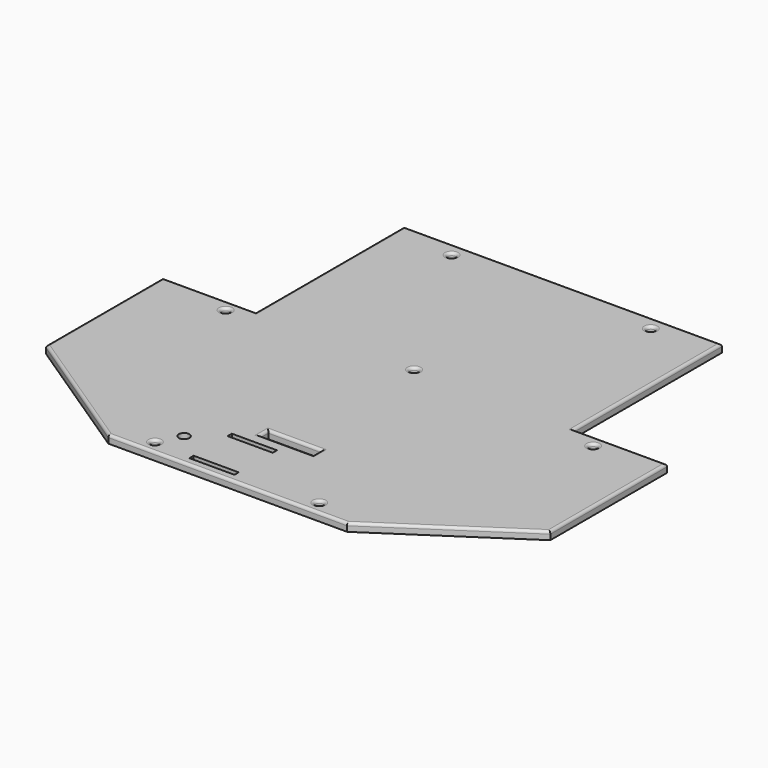
from build123d import *

# Parameters (mm, degrees)
SKETCH028_W      = 17
SKETCH028_H      = 2
EXTRUDE029_DEPTH = 5
SKETCH026_R      = 2
EXTRUDE028_DEPTH = 10
SKETCH025_R      = 1.5
SKETCH025_W      = 20.032371
SKETCH025_H      = 3.947685
EXTRUDE027_DEPTH = 3
FILLET_R         = 1


with BuildPart() as motor_flange_gap:
    # Sketch028 (on Face8 of Cut012) → Extrude029 (new body, symmetric)
    with BuildSketch(Plane.XY.offset(38)):
        with Locations((-8.5, -101)):
            Rectangle(SKETCH028_W, SKETCH028_H)
        with Locations((-8.5, -119)):
            Rectangle(SKETCH028_W, SKETCH028_H)
    extrude(amount=EXTRUDE029_DEPTH, both=True)


with BuildPart() as weapon_wire_slot:
    # Sketch026 (on Face8 of Fillet) → Extrude028 (new body)
    with BuildSketch(Plane.XY.offset(38)):
        with Locations((0, -110)):
            Circle(SKETCH026_R)
    extrude(amount=EXTRUDE028_DEPTH)


with BuildPart() as weapon_wire_slot_1:
    # Extrude028 placement: moved
    add(weapon_wire_slot.part.moved(Location((-27, 0, -6.5))))


with BuildPart() as cut013:
    # Sketch025 (on Face86 of Fusion018) → Extrude027 (new body)
    with BuildSketch(Plane.XY.offset(35)):
        Polygon((-59.987026, 34.827255), (59.804127, 34.827255), (59.804127, -34.966816), (94.999252, -34.966816), (94.999252, -89.997261), (44.964386, -123.178299), (-45.006824, -123.178299), (-94.999153, -90.011429), (-94.999153, -35.007931), (-59.987026, -35.007931), align=None)
        with Locations((37.418976, 29.299974)):
            Circle(SKETCH025_R, mode=Mode.SUBTRACT)
        with Locations((-37.612221, 29.279016)):
            Circle(SKETCH025_R, mode=Mode.SUBTRACT)
        with Locations((-0.59146, -34.690746)):
            Circle(SKETCH025_R, mode=Mode.SUBTRACT)
        with Locations((70.904549, -39.710636)):
            Circle(SKETCH025_R, mode=Mode.SUBTRACT)
        with Locations((30.57519, -118.303795)):
            Circle(SKETCH025_R, mode=Mode.SUBTRACT)
        with Locations((-31.368124, -118.305359)):
            Circle(SKETCH025_R, mode=Mode.SUBTRACT)
        with Locations((-67.592262, -39.70982)):
            Circle(SKETCH025_R, mode=Mode.SUBTRACT)
        with Locations((0.024718, -93.534191)):
            Rectangle(SKETCH025_W, SKETCH025_H, mode=Mode.SUBTRACT)
    extrude(amount=EXTRUDE027_DEPTH)

    # Fillet
    fillet_edges = [cut013.edges().sort_by_distance(p)[0] for p in [
        (-0.09145, 34.827255, 38),
        (59.804127, -0.069781, 38),
        (77.40169, -34.966816, 38),
        (94.999252, -62.482038, 38),
        (69.981819, -106.58778, 38),
        (-0.021219, -123.178299, 38),
        (-70.002989, -106.594864, 38),
        (-94.999153, -62.50968, 38),
        (-77.493089, -35.007931, 38),
        (-59.987026, -0.090338, 38),
        (0.024717, -91.560349, 38),
        (10.040903, -93.534191, 38),
        (0.024718, -95.508034, 38),
        (-9.991468, -93.534191, 38),
        (-69.092262, -39.70982, 38),
        (-32.868124, -118.305359, 38),
        (29.07519, -118.303795, 38),
        (69.404549, -39.710636, 38),
        (-2.09146, -34.690746, 38),
        (-39.112221, 29.279016, 38),
        (35.918976, 29.299974, 38),
    ]]
    fillet(fillet_edges, radius=FILLET_R)

    # Cut012: cut Weapon Wire slot
    add(weapon_wire_slot_1.part, mode=Mode.SUBTRACT)

    # Cut013: cut Motor Flange Gap
    add(motor_flange_gap.part, mode=Mode.SUBTRACT)


solid = cut013.part
